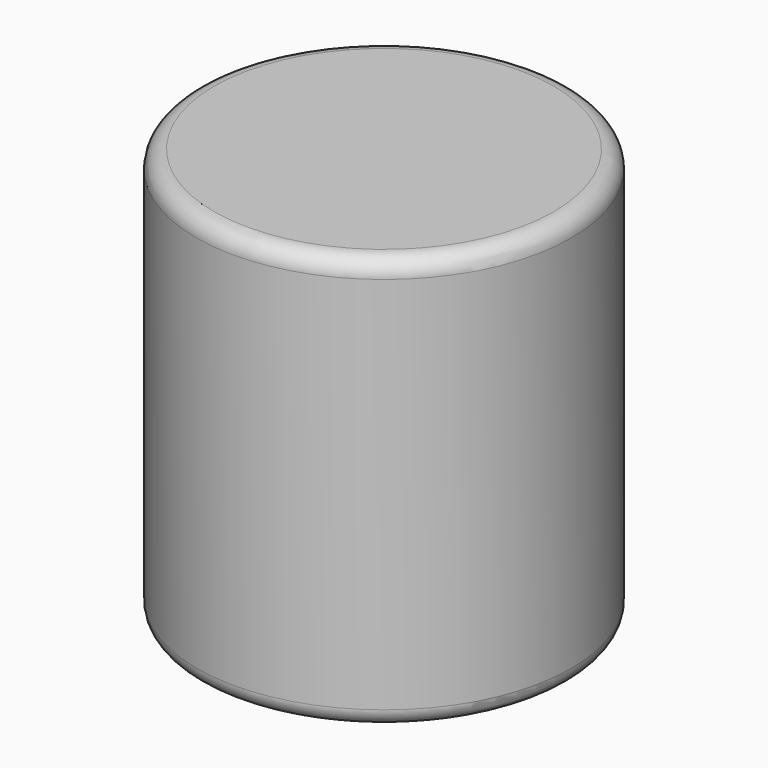
from build123d import *

# Parameters (mm, degrees)
F0_R     = 54.510809
F1_DEPTH = 120.396
F2_R     = 5.08


with BuildPart() as f1:
    # F0 (on Top) → F1 (new body)
    with BuildSketch(Plane.XY):
        with Locations((-4.818121, 10.074252)):
            Circle(F0_R)
        with Locations((-4.818121, 10.074252)):
            Circle(F0_R)
    extrude(amount=F1_DEPTH)

    # F2
    f2_edges = [f1.edges().sort_by_distance(p)[0] for p in [
        (-59.328929, 10.074252, 120.396),
        (-59.328929, 10.074252, 0),
    ]]
    fillet(f2_edges, radius=F2_R)


solid = f1.part
